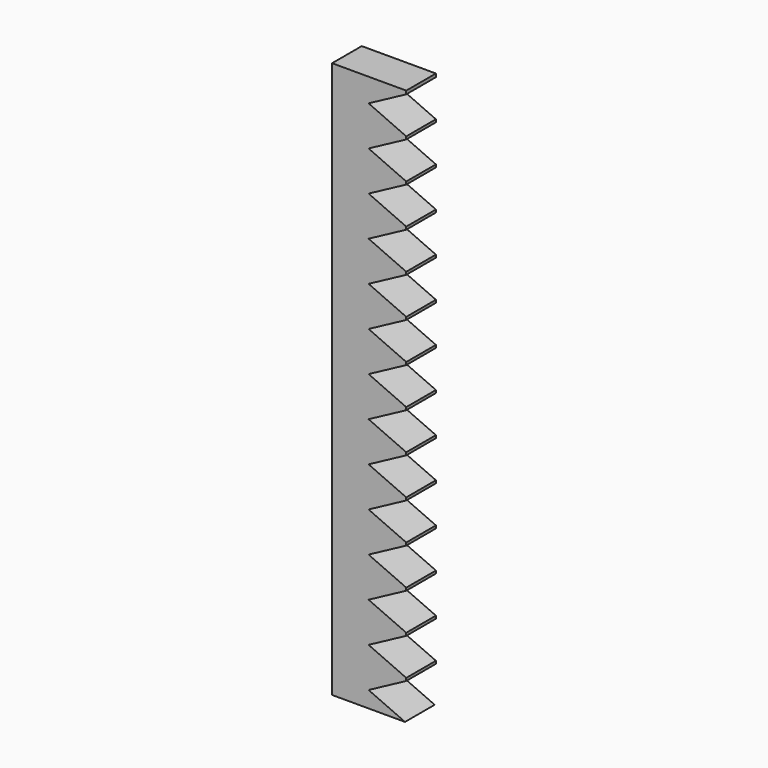
from build123d import *

# Parameters (mm, degrees)
SKETCH_W            = 40
SKETCH_H            = 20
PAD_DEPTH           = 300
POCKET_DEPTH        = 12
LINEARPATTERN_COUNT = 15
LINEARPATTERN_PITCH = 21.428571


with BuildPart() as part:
    # Sketch → Pad (new body)
    with BuildSketch(Plane.XY.offset(26.612171)):
        with Locations((0.312673, 1.131631)):
            Rectangle(SKETCH_W, SKETCH_H)
    extrude(amount=PAD_DEPTH)

    # Sketch001 → Pocket (cut, symmetric)
    with BuildSketch(Plane.XZ):
        Polygon((21.003967, 325.206817), (21.003967, 304.575988), (0, 313.960541), align=None)
    pocket = extrude(amount=POCKET_DEPTH, both=True, mode=Mode.SUBTRACT)

    # LinearPattern: Pocket ×15
    with Locations(*[(0, 0, -i * LINEARPATTERN_PITCH) for i in range(1, LINEARPATTERN_COUNT)]):
        add(pocket, mode=Mode.SUBTRACT)


with BuildPart() as part_1:
    # Body placement: moved
    add(part.part.moved(Location((784, -496, 0))))


solid = part_1.part
